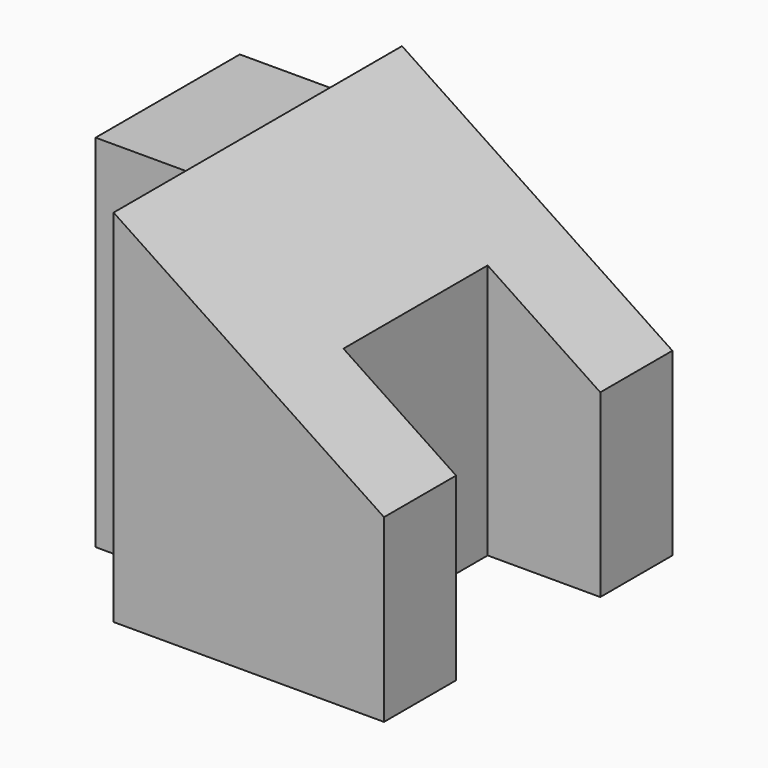
from build123d import *

# Parameters (mm, degrees)
F0_W     = 12.7
F0_H     = 50.8
F1_DEPTH = 50.8
F2_W     = 12.7
F2_H     = 12.7
F2_W_2   = 15.875
F2_H_2   = 25.4
F3_DEPTH = 50.801


with BuildPart() as f1:
    # F0 (on Front) → F1 (new body)
    with BuildSketch(Plane.XZ):
        with Locations((6.35, 25.4)):
            Rectangle(F0_W, F0_H)
        Polygon((12.7, 50.8), (12.7, 0), (50.8, 0), (50.8, 25.4), align=None)
    extrude(amount=F1_DEPTH)

    # F2 (on face) → F3 (cut, through all)
    with BuildSketch(Plane(origin=(0, 0, 0), x_dir=(1, 0, 0), z_dir=(0, 0, -1))):
        with Locations((6.35, 44.45)):
            Rectangle(F2_W, F2_H)
        with Locations((6.35, 6.35)):
            Rectangle(F2_W, F2_H)
        with Locations((42.8625, 25.4)):
            Rectangle(F2_W_2, F2_H_2)
    extrude(amount=-F3_DEPTH, mode=Mode.SUBTRACT)


solid = f1.part
